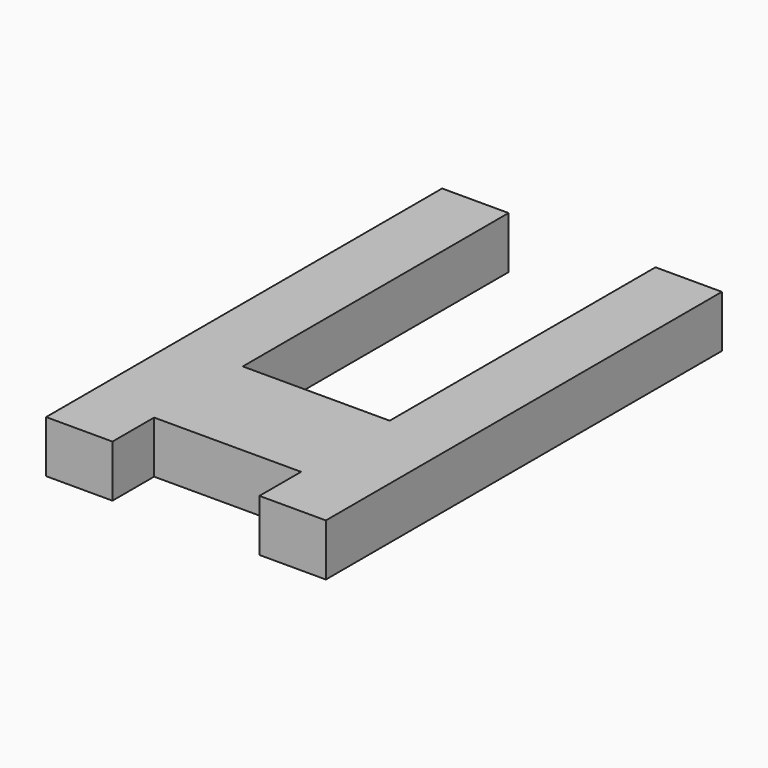
from build123d import *

# Parameters (mm, degrees)
F1_DEPTH = 11.938


with BuildPart() as f1:
    # F0 (on Top) → F1 (new body)
    with BuildSketch(Plane.XY):
        Polygon((7.034373, 0), (-26.658727, 0), (-26.658727, 76.2), (-41.898727, 76.2), (-41.898727, 0), (-41.898727, -25.4), (-41.898727, -37.338), (-26.671427, -37.338), (-26.671427, -25.4), (7.034373, -25.4), (7.034373, -37.338), (22.274373, -37.338), (22.274373, -25.4), (22.274373, 0), (22.274373, 76.2), (7.034373, 76.2), align=None)
    extrude(amount=F1_DEPTH)


solid = f1.part
